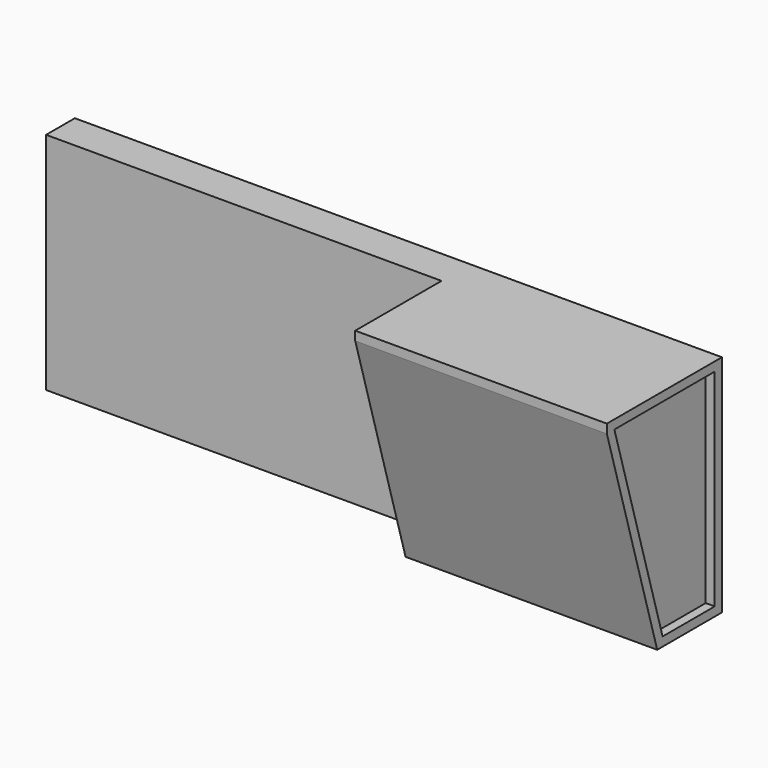
from build123d import *

# Parameters (mm, degrees)
F0_W     = 355.6
F0_H     = 317.5
F1_DEPTH = 203.2
F3_SIZE2 = 304.8
F3_SIZE  = 88.9
F4_W     = 50.8
F4_H     = 317.5
F5_DEPTH = 558.8
F7_DEPTH = 12.7
F8_W     = 25.4
F8_H     = 292.1
F9_DEPTH = 12.7
F10_T    = -12.7
F13_R    = 7.62


with BuildPart() as f1:
    # F0 (on Front) → F1 (new body)
    with BuildSketch(Plane.XZ):
        Rectangle(F0_W, F0_H)
    extrude(amount=F1_DEPTH)

    # F3
    f3_edges = [f1.edges().sort_by_distance(p)[0] for p in [
        (0, -203.2, -158.75),
    ]]
    f3_side = f1.faces().sort_by_distance((0, -101.6, -158.75))[0]
    chamfer(f3_edges, length=F3_SIZE, length2=F3_SIZE2, reference=f3_side)

    # F4 (on face) → F5 (join)
    with BuildSketch(Plane(origin=(-177.8, 0, 0), x_dir=(0, -1, 0), z_dir=(-1, 0, 0))):
        with Locations((25.4, 0)):
            Rectangle(F4_W, F4_H)
    extrude(amount=F5_DEPTH)

    # F6 (on face) → F7 (cut)
    with BuildSketch(Plane.YZ.offset(177.8)):
        Polygon((-12.7, 146.05), (-189.9708333333, 146.05), (-104.775, -146.05), (-12.7, -146.05), align=None)
    extrude(amount=-F7_DEPTH, mode=Mode.SUBTRACT)

    # F8 (on face) → F9 (cut)
    with BuildSketch(Plane(origin=(-736.6, 0, 0), x_dir=(0, -1, 0), z_dir=(-1, 0, 0))):
        with Locations((25.4, 0)):
            Rectangle(F8_W, F8_H)
    extrude(amount=-F9_DEPTH, mode=Mode.SUBTRACT)

    # F10 (hollow: no face is removed)
    offset(amount=F10_T, kind=Kind.INTERSECTION, mode=Mode.SUBTRACT)

    # F13
    f13_edges = [f1.edges().sort_by_distance(p)[0] for p in [
        (-165.1, -38.1, 0),
    ]]
    fillet(f13_edges, radius=F13_R)


solid = f1.part
